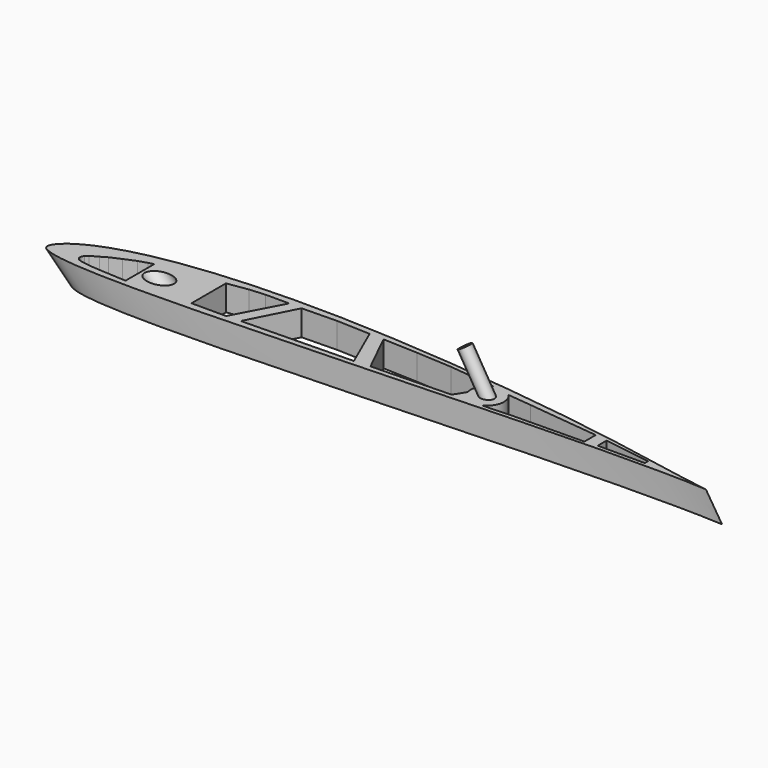
from build123d import *

# Parameters (mm, degrees)
SKETCH017_R     = 4.1
POCKET005_DEPTH = 1000
SKETCH030_W     = 1588.973725
SKETCH030_H     = 561.268219
POCKET016_DEPTH = 500
SKETCH031_W     = 528.140777
SKETCH031_H     = 213.964691
POCKET017_DEPTH = 90
POCKET020_DEPTH = 15
SKETCH035_R     = 6.5
PAD_DEPTH       = 10
SKETCH036_W     = 5.64923
SKETCH036_H     = 2.390876
PAD001_DEPTH    = 10
SKETCH037_R     = 2.5
PAD002_DEPTH    = 20


with BuildPart() as part:
    # Sketch016 → AdditiveLoft005 section 0
    with BuildSketch(Plane.XY):
        with BuildLine():
            add(Edge.make_bspline(
                [(442, 0), (441.516482, 0.05985), (439.608661, 0.304392), (435.397729, 0.910974), (428.574856, 2.050787), (419.357172, 3.70148), (407.988015, 5.842425), (394.698211, 8.361511), (379.693029, 11.119858), (363.162801, 13.997331), (345.26298, 16.850624), (326.154422, 19.592319), (306.024603, 22.224467), (285.087437, 24.693135), (263.574681, 26.954707), (241.720258, 28.956147), (219.751231, 30.630726), (197.897907, 31.93252), (176.376671, 32.821617), (155.396014, 33.244603), (135.15065, 33.188213), (115.824376, 32.629564), (97.587476, 31.56887), (80.596225, 30.005784), (64.993081, 27.968424), (50.899514, 25.480303), (38.413049, 22.576942), (27.612464, 19.308312), (18.537399, 15.757674), (11.25959, 12.025676), (5.681209, 8.285847), (2.085717, 4.609671), (-0.247471, 1.339778), (0.311945, -2.351632), (4.312806, -4.086549), (9.630029, -5.736613), (17.536136, -6.998137), (27.548729, -7.995899), (39.778624, -8.638792), (54.057759, -8.977652), (70.277468, -9.020418), (88.270446, -8.806011), (107.851364, -8.369968), (128.803322, -7.757266), (150.891088, -7.009708), (173.8572, -6.171241), (197.434439, -5.258382), (221.347851, -4.314599), (245.320032, -3.359505), (269.074332, -2.428661), (292.331841, -1.542801), (314.820615, -0.740997), (336.263952, -0.054134), (356.390635, 0.471415), (374.915352, 0.819632), (391.616087, 0.995955), (406.124271, 0.998543), (418.5896, 0.838399), (427.79948, 0.669458), (436.147044, 0.281922), (438.208582, 0.287723), (442.482043, -0.059667), (442, 0)],
                knots=[0, 0, 0, 0, 1.461597, 5.77029, 12.762078, 22.212664, 33.86298, 47.468775, 62.792045, 79.632371, 97.804006, 117.167199, 137.543181, 158.706049, 180.412086, 202.435333, 224.541436, 246.507528, 268.108303, 289.156025, 309.457208, 328.838587, 347.151752, 364.251375, 380.016791, 394.345039, 407.169539, 418.451022, 428.175556, 436.348274, 442.987025, 448.138084, 451.892769, 454.490135, 458.080843, 463.78995, 471.700688, 481.805752, 494.068802, 508.3943, 524.664455, 542.72125, 562.377151, 583.420645, 605.603797, 628.678224, 652.364831, 676.388479, 700.474308, 724.338439, 747.706026, 770.297556, 791.846969, 812.070775, 830.691007, 847.452489, 862.104791, 874.428615, 884.234973, 891.369529, 895.711178, 897.168317, 897.168317, 897.168317, 897.168317], degree=3))
        make_face()
    # Sketch015 → AdditiveLoft005 section 1
    with BuildSketch(Plane(origin=(600, 0, -600), x_dir=(1, 0, 0), z_dir=(0, 0, 1))):
        with BuildLine():
            add(Edge.make_bspline(
                [(221, 0), (220.758241, 0.029925), (219.804331, 0.152196), (217.698864, 0.455487), (214.287428, 1.025393), (209.678586, 1.85074), (203.994008, 2.921212), (197.349106, 4.180756), (189.846514, 5.559929), (181.5814, 6.998665), (172.63149, 8.425312), (163.077211, 9.796159), (153.012301, 11.112233), (142.543719, 12.346568), (131.78734, 13.477353), (120.860129, 14.478073), (109.875616, 15.315363), (98.948954, 15.96626), (88.188336, 16.410808), (77.698007, 16.622301), (67.575325, 16.594107), (57.912188, 16.314782), (48.793738, 15.784435), (40.298113, 15.002892), (32.49654, 13.984212), (25.449757, 12.740151), (19.206525, 11.288471), (13.806232, 9.654156), (9.2687, 7.878837), (5.629795, 6.012838), (2.840604, 4.142924), (1.042858, 2.304836), (-0.123736, 0.669889), (0.155972, -1.175816), (2.156403, -2.043274), (4.815015, -2.868307), (8.768068, -3.499068), (13.774365, -3.997949), (19.889312, -4.319396), (27.028879, -4.488826), (35.138734, -4.510209), (44.135223, -4.403006), (53.925682, -4.184984), (64.401661, -3.878633), (75.445544, -3.504854), (86.9286, -3.08562), (98.71722, -2.629191), (110.673925, -2.157299), (122.660016, -1.679753), (134.537166, -1.21433), (146.165921, -0.771401), (157.410308, -0.370498), (168.131976, -0.027067), (178.195317, 0.235708), (187.457676, 0.409816), (195.808043, 0.497978), (203.062136, 0.499271), (209.2948, 0.4192), (213.89974, 0.334729), (218.073522, 0.140961), (219.104291, 0.143861), (221.241022, -0.029834), (221, 0)],
                knots=[0, 0, 0, 0, 0.730799, 2.885145, 6.381039, 11.106332, 16.93149, 23.734387, 31.396023, 39.816186, 48.902003, 58.583599, 68.77159, 79.353025, 90.206043, 101.217667, 112.270718, 123.253764, 134.054152, 144.578012, 154.728604, 164.419294, 173.575876, 182.125688, 190.008395, 197.172519, 203.58477, 209.225511, 214.087778, 218.174137, 221.493513, 224.069042, 225.946384, 227.245067, 229.040421, 231.894975, 235.850344, 240.902876, 247.034401, 254.19715, 262.332227, 271.360625, 281.188575, 291.710323, 302.801898, 314.339112, 326.182416, 338.19424, 350.237154, 362.16922, 373.853013, 385.148778, 395.923484, 406.035388, 415.345504, 423.726244, 431.052396, 437.214307, 442.117487, 445.684765, 447.855589, 448.584159, 448.584159, 448.584159, 448.584159], degree=3))
        make_face()
    loft()

    # Sketch017 (on DatumPlane) → Pocket005 (cut)
    with BuildSketch(Plane(origin=(0, 0, 0), x_dir=(0.707107, 0, 0.707107), z_dir=(-0.707107, 0, 0.707107))):
        with Locations((28.334262, 4.752984)):
            Circle(SKETCH017_R)
    extrude(amount=-POCKET005_DEPTH, mode=Mode.SUBTRACT)

    # Sketch030 (on Face1 of Pocket005) → Pocket016 (cut)
    with BuildSketch(Plane.XY):
        with Locations((379.688064, 49.220748)):
            Rectangle(SKETCH030_W, SKETCH030_H)
    extrude(amount=-POCKET016_DEPTH, mode=Mode.SUBTRACT)

    # Sketch031 (on Face3 of Pocket016) → Pocket017 (cut)
    with BuildSketch(Plane(origin=(0, 0, -600), x_dir=(1, 0, 0), z_dir=(0, 0, -1))):
        with Locations((683.836593, 6.141769)):
            Rectangle(SKETCH031_W, SKETCH031_H)
    extrude(amount=-POCKET017_DEPTH, mode=Mode.SUBTRACT)

    # Sketch034 (on Face2 of Pocket017) → Pocket020 (cut)
    with BuildSketch(Plane(origin=(0, 0, -510), x_dir=(1, 0, 0), z_dir=(0, 0, -1))):
        Polygon((532.975769, -11.136404), (532.975769, 2.92211), (530.009338, 2.787875), (522.079712, 2.345585), (517.625183, 1.966479), (514.687134, 1.524189), (513.202271, 0.987121), (512.403896, 0), (512.447449, -1.011132), (512.98114, -2.045728), (513.93158, -2.862527), (516.866943, -4.509918), (519.236389, -5.899974), (523.248596, -7.669137), (527.608337, -9.501483), (531.026184, -10.585516), align=None)
        Polygon((709.0998, -1.489375), (709.0998, -7.02794), (681.162056, -10.140638), (669.975159, -11.308683), (663.046086, -0.328372), (681.550964, -1.112332), align=None)
        Polygon((665.655804, -12.535703), (658.00018, -0.404047), (634.363403, 0.273619), (626.915894, 0.464469), (618.810486, -16.033358), (632.431091, -15.4678), (646.309021, -14.672786), (657.347656, -13.477523), align=None)
        Polygon((613.241882, -16.205853), (620.735596, 0.853957), (577.174744, 1.797808), (586.446716, -16.410078), (600.127075, -16.677155), align=None)
        Polygon((581.435974, -16.546112), (571.632935, 2.02311), (558.059509, 2.02311), (558.059509, -14.84943), (566.118713, -16.07481), (572.104248, -16.54611), align=None)
        Polygon((713.989056, -1.924889), (713.989056, -6.327312), (732.409772, -3.449078), (732.409772, -1.924889), align=None)
    extrude(amount=-POCKET020_DEPTH, mode=Mode.SUBTRACT)

    # Sketch035 (on Face3 of Pocket020) → Pad (join)
    with BuildSketch(Plane.XY.offset(-500)):
        with Locations((667, 6.6)):
            Circle(SKETCH035_R)
    extrude(amount=-PAD_DEPTH)

    # Sketch036 (on Face52 of Pad) → Pad001 (join)
    with BuildSketch(Plane.XY.offset(-500)):
        with Locations((664.226532, 0.87578)):
            Rectangle(SKETCH036_W, SKETCH036_H)
    extrude(amount=-PAD001_DEPTH)

    # Sketch037 (on DatumPlane) → Pad002 (join)
    with BuildSketch(Plane(origin=(0, 0, -904), x_dir=(0.857493, 0, 0.514496), z_dir=(-0.514496, 0, 0.857493))):
        with Locations((779.81, 6.5)):
            Circle(SKETCH037_R)
    extrude(amount=PAD002_DEPTH)


solid = part.part
